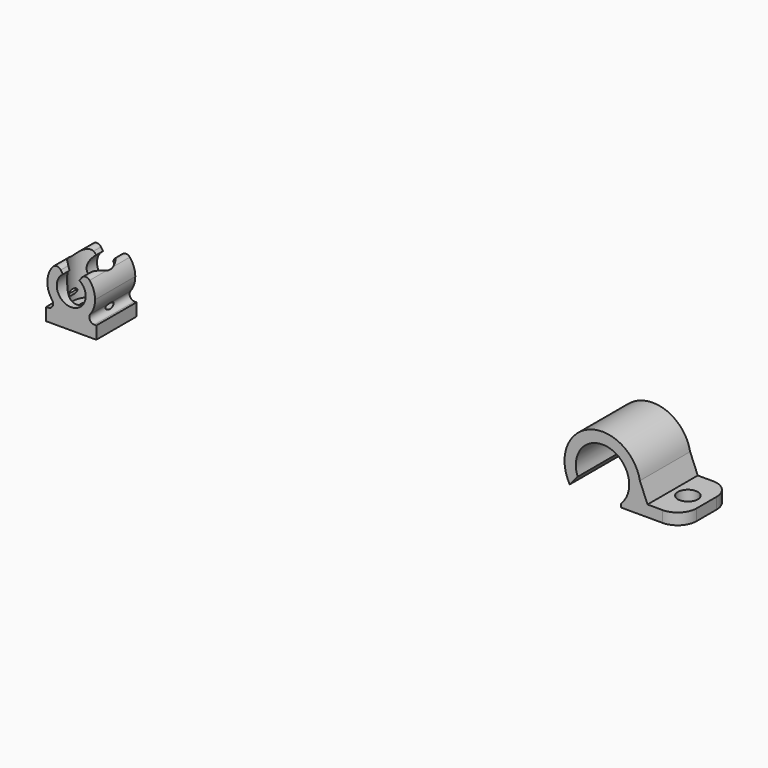
from build123d import *

# Parameters (mm, degrees)
F1_DEPTH = 8
F2_R     = 0.8
F3_R     = 1.75
F4_DEPTH = 8.266459521
F5_START = -1.5
F3_R_2   = 3
F5_DEPTH = 13.5
F7_DEPTH = 10
F8_R     = 1.6
F9_DEPTH = 6.7828354428
F10_R    = 3


with BuildPart() as f1:
    # F0 (on Front) → F1 (new body)
    with BuildSketch(Plane.XZ):
        with BuildLine():
            ThreePointArc((-53.7033075237, 49.1260529639), (-52.982408411, 48.3040250725), (-52.7225333273, 47.242003262))
            ThreePointArc((-52.7225333273, 47.242003262), (-56.0845551378, 45.2018783457), (-56.3417591309, 49.1260529639))
            Line((-56.3417591309, 49.1260529639), (-57.2021237855, 50.3547810303))
            ThreePointArc((-57.2021237855, 50.3547810303), (-58.7927777428, 46.7673907382), (-56.3626516399, 43.6861513376))
            Line((-56.3626516399, 43.6861513376), (-53.6824150148, 43.6861513376))
            ThreePointArc((-53.6824150148, 43.6861513376), (-51.8974373618, 45.0801116815), (-51.2225333273, 47.242003262))
            ThreePointArc((-51.2225333273, 47.242003262), (-51.6518921613, 48.9966479923), (-52.8429428692, 50.3547810303))
            Line((-52.8429428692, 50.3547810303), (-53.7033075237, 49.1260529639))
        make_face()
        with BuildLine():
            ThreePointArc((-53.6824150148, 43.6861513376), (-55.0225333273, 43.442003262), (-56.3626516399, 43.6861513376))
            Line((-56.3626516399, 43.6861513376), (-59.0225333273, 43.6861513376))
            Line((-59.0225333273, 43.6861513376), (-59.0225333273, 41.6861513376))
            Line((-59.0225333273, 41.6861513376), (-51.0225333273, 41.6861513376))
            Line((-51.0225333273, 41.6861513376), (-51.0225333273, 43.6861513376))
            Line((-51.0225333273, 43.6861513376), (-53.6824150148, 43.6861513376))
        make_face()
        with BuildLine():
            Line((-53.6824150148, 43.6861513376), (-56.3626516399, 43.6861513376))
            ThreePointArc((-56.3626516399, 43.6861513376), (-55.0225333273, 43.442003262), (-53.6824150148, 43.6861513376))
        make_face()
    extrude(amount=F1_DEPTH)

    # F2
    f2_edges = [f1.edges().sort_by_distance(p)[0] for p in [
        (-56.362652, -4, 43.686151),
        (-53.682415, -4, 43.686151),
        (-57.202124, -4, 50.354781),
        (-52.842943, -4, 50.354781),
    ]]
    fillet(f2_edges, radius=F2_R)

    # F3 (on face) → F4 (cut, through all)
    with BuildSketch(Plane(origin=(0, 0, 41.6861513376), x_dir=(1, 0, 0), z_dir=(0, 0, -1))):
        with Locations((-55.0225333273, 4)):
            Circle(F3_R)
    extrude(amount=-F4_DEPTH, mode=Mode.SUBTRACT)

    # F3 (on face) → F5 (cut)
    with BuildSketch(Plane(origin=(0, 0, 41.6861513376), x_dir=(1, 0, 0), z_dir=(0, 0, -1)).offset(F5_START)):
        with Locations((-55.0225333273, 4)):
            Circle(F3_R_2)
        with Locations((-55.0225333273, 4)):
            Circle(F3_R, mode=Mode.SUBTRACT)
    extrude(amount=-F5_DEPTH, mode=Mode.SUBTRACT)


with BuildPart() as f7:
    # F6 (on Front) → F7 (new body)
    with BuildSketch(Plane.XZ):
        with BuildLine():
            ThreePointArc((27.1970029577, 48.7419112075), (32.0493710779, 54.4534840109), (34.1091194362, 47.2475852492))
            Line((34.1091194362, 47.2475852492), (34.1091194362, 46.6679867804))
            Line((34.1091194362, 46.6679867804), (35.6683470309, 46.6679867804))
            Line((35.6683470309, 46.6679867804), (37.9846775437, 46.6679867804))
            Line((37.9846775437, 46.6679867804), (43.7218266428, 46.6679867804))
            Line((43.7218266428, 46.6679867804), (43.7218266428, 48.4679867804))
            Line((43.7218266428, 48.4679867804), (38.3111834526, 48.4679867804))
            Line((38.3111834526, 48.4679867804), (37.0992450122, 51.4060711779))
            ThreePointArc((37.0992450122, 51.4060711779), (29.0385841912, 55.9685666973), (25.9298348349, 47.2435282633))
            Line((25.9298348349, 47.2435282633), (27.1970029577, 48.7419112075))
        make_face()
    extrude(amount=F7_DEPTH)

    # F8 (on face) → F9 (cut, through all)
    with BuildSketch(Plane.XY.offset(48.4679867804)):
        with Locations((40.7373113036, -5)):
            Circle(F8_R)
    extrude(amount=-F9_DEPTH, mode=Mode.SUBTRACT)

    # F10
    f10_edges = [f7.edges().sort_by_distance(p)[0] for p in [
        (43.721827, -10, 47.567987),
        (43.721827, 0, 47.567987),
    ]]
    fillet(f10_edges, radius=F10_R)


solid = Compound([f1.part, f7.part])
